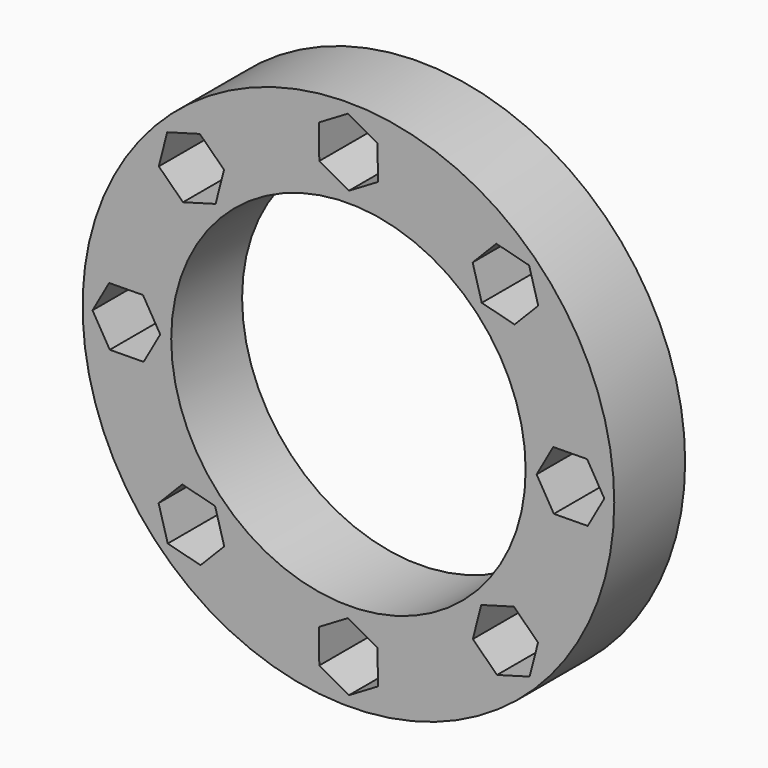
from build123d import *

# Parameters (mm, degrees)
F0_R     = 75
F0_R_2   = 50
F1_DEPTH = 25


with BuildPart() as f1:
    # F0 (on Front) → F1 (new body)
    with BuildSketch(Plane.XZ):
        Circle(F0_R)
        Polygon((-41.721445, -53.497019), (-50.976545, -51.127983), (-53.552449, -41.928313), (-46.873254, -35.09768), (-37.618154, -37.466716), (-35.04225, -46.666385), align=None, mode=Mode.SUBTRACT)
        Polygon((8.326588, -67.329621), (0.107083, -72.198804), (-8.219505, -67.515095), (-8.326588, -57.962203), (-0.107083, -53.093021), (8.219505, -57.77673), align=None, mode=Mode.SUBTRACT)
        Polygon((53.497019, -41.721445), (51.127983, -50.976545), (41.928313, -53.552449), (35.09768, -46.873254), (37.466716, -37.618154), (46.666385, -35.04225), align=None, mode=Mode.SUBTRACT)
        Polygon((67.329621, 8.326588), (72.198804, 0.107083), (67.515095, -8.219505), (57.962203, -8.326588), (53.093021, -0.107083), (57.77673, 8.219505), align=None, mode=Mode.SUBTRACT)
        Polygon((-67.329621, -8.326588), (-72.198804, -0.107083), (-67.515095, 8.219505), (-57.962203, 8.326588), (-53.093021, 0.107083), (-57.77673, -8.219505), align=None, mode=Mode.SUBTRACT)
        Polygon((-53.497019, 41.721445), (-51.127983, 50.976545), (-41.928313, 53.552449), (-35.09768, 46.873254), (-37.466716, 37.618154), (-46.666385, 35.04225), align=None, mode=Mode.SUBTRACT)
        Circle(F0_R_2, mode=Mode.SUBTRACT)
        Polygon((-8.326588, 67.329621), (-0.107083, 72.198804), (8.219505, 67.515095), (8.326588, 57.962203), (0.107083, 53.093021), (-8.219505, 57.77673), align=None, mode=Mode.SUBTRACT)
        Polygon((41.721445, 53.497019), (50.976545, 51.127983), (53.552449, 41.928313), (46.873254, 35.09768), (37.618154, 37.466716), (35.04225, 46.666385), align=None, mode=Mode.SUBTRACT)
    extrude(amount=F1_DEPTH)


solid = f1.part
